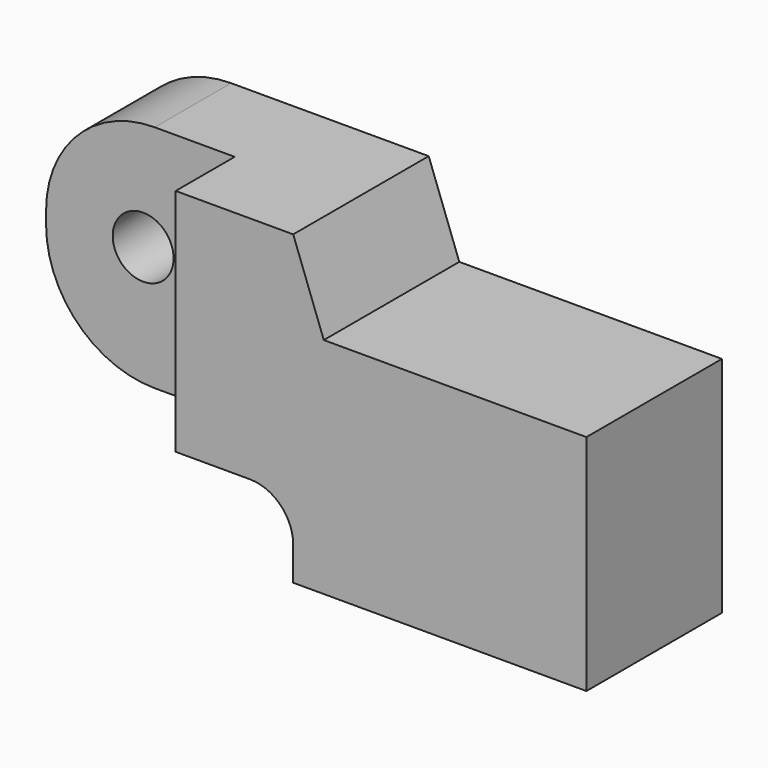
from build123d import *

# Parameters (mm, degrees)
F1_DEPTH = 44.52843
F2_W     = 49.588684
F2_H     = 19.407944
F3_DEPTH = 66.4709
F4_R     = 28.54781
F5_R     = 8.001
F6_DEPTH = 25.4


with BuildPart() as f1:
    # F0 (on Front) → F1 (new body)
    with BuildSketch(Plane.XZ):
        with BuildLine():
            Line((0, 80.637269), (-80.498122, 80.637269))
            Line((-80.498122, 80.637269), (-80.498122, 20.247112))
            Line((-80.498122, 20.247112), (-11.43, 20.247112))
            ThreePointArc((-11.43, 20.247112), (-3.347769, 16.899343), (0, 8.817112))
            Line((0, 8.817112), (0, 0))
            Line((0, 0), (77.087894, 0))
            Line((77.087894, 0), (77.087894, 58.782335))
            Line((77.087894, 58.782335), (8.040541, 58.782335))
            Line((8.040541, 58.782335), (0, 80.637269))
        make_face()
    extrude(amount=F1_DEPTH)

    # F2 (on face) → F3 (cut)
    with BuildSketch(Plane.XY.offset(80.637269)):
        with Locations((-55.70378, -34.824458)):
            Rectangle(F2_W, F2_H)
    extrude(amount=-F3_DEPTH, mode=Mode.SUBTRACT)

    # F4
    f4_edges = [f1.edges().sort_by_distance(p)[0] for p in [
        (-80.498122, -12.560243, 80.637269),
        (-80.498122, -12.560243, 20.247112),
    ]]
    fillet(f4_edges, radius=F4_R)

    # F5 (on face) → F6 (cut)
    with BuildSketch(Plane.XZ.offset(25.120486)):
        with Locations((-54.975234, 51.908772)):
            Circle(F5_R)
    extrude(amount=-F6_DEPTH, mode=Mode.SUBTRACT)


solid = f1.part
